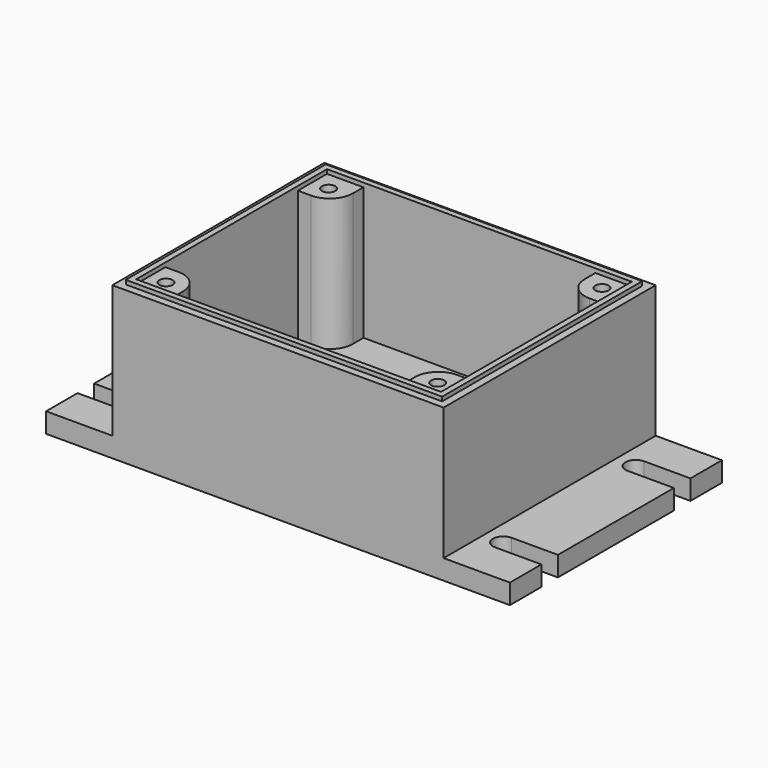
from build123d import *

# Parameters (mm, degrees)
F0_W     = 100
F0_H     = 80
F1_DEPTH = 40
F3_DEPTH = 6
F4_R     = 7
F5_W     = 95.5
F5_H     = 75.5
F5_W_2   = 92
F5_H_2   = 72
F6_DEPTH = 1.25
F7_R     = 2
F8_DEPTH = 25


with BuildPart() as f1:
    # F0 (on Top) → F1 (new body)
    with BuildSketch(Plane.XY):
        with Locations((50, 40)):
            Rectangle(F0_W, F0_H)
        Polygon((85, 4), (15, 4), (15, 15), (4, 15), (4, 65), (15, 65), (15, 76), (85, 76), (85, 65), (96, 65), (96, 15), (85, 15), align=None, mode=Mode.SUBTRACT)
    extrude(amount=F1_DEPTH)

    # F2 (on face) → F3 (join)
    with BuildSketch(Plane(origin=(0, 0, 0), x_dir=(1, 0, 0), z_dir=(0, 0, -1))):
        with BuildLine():
            Line((120, 0), (-20, 0))
            Line((-20, 0), (-20, -11.875))
            Line((-20, -11.875), (-6, -11.875))
            ThreePointArc((-6, -11.875), (-2.875, -15), (-6, -18.125))
            Line((-6, -18.125), (-20, -18.125))
            Line((-20, -18.125), (-20, -61.875))
            Line((-20, -61.875), (-6, -61.875))
            ThreePointArc((-6, -61.875), (-2.875, -65), (-6, -68.125))
            Line((-6, -68.125), (-20, -68.125))
            Line((-20, -68.125), (-20, -80))
            Line((-20, -80), (120, -80))
            Line((120, -80), (120, -68.125))
            Line((120, -68.125), (106, -68.125))
            ThreePointArc((106, -68.125), (102.875, -65), (106, -61.875))
            Line((106, -61.875), (120, -61.875))
            Line((120, -61.875), (120, -18.125))
            Line((120, -18.125), (106, -18.125))
            ThreePointArc((106, -18.125), (102.875, -15), (106, -11.875))
            Line((106, -11.875), (120, -11.875))
            Line((120, -11.875), (120, 0))
        make_face()
    extrude(amount=F3_DEPTH)

    # F4
    f4_edges = [f1.edges().sort_by_distance(p)[0] for p in [
        (15, 65, 20),
        (15, 15, 20),
        (85, 65, 20),
        (85, 15, 20),
    ]]
    fillet(f4_edges, radius=F4_R)

    # F5 (on face) → F6 (join)
    with BuildSketch(Plane.XY.offset(40)):
        with Locations((50, 40)):
            Rectangle(F5_W, F5_H)
        with Locations((50, 40)):
            Rectangle(F5_W_2, F5_H_2, mode=Mode.SUBTRACT)
    extrude(amount=F6_DEPTH)

    # F7 (on face) → F8 (cut)
    with BuildSketch(Plane.XY.offset(40)):
        with Locations((9, 9)):
            Circle(F7_R)
        with Locations((9, 70.342632)):
            Circle(F7_R)
        with Locations((91, 71)):
            Circle(F7_R)
        with Locations((91, 9)):
            Circle(F7_R)
    extrude(amount=-F8_DEPTH, mode=Mode.SUBTRACT)


solid = f1.part
